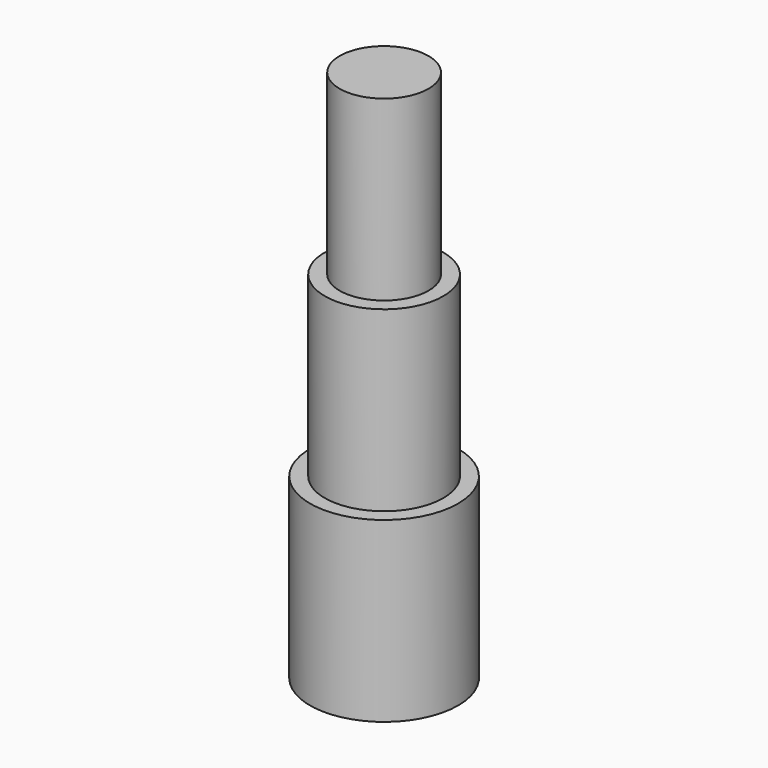
from build123d import *

# Parameters (mm, degrees)
F1_R      = 1
F2_DEPTH  = 6
F0_R      = 0.75
F3_DEPTH  = 9
F5_R      = 1.25
F6_DEPTH  = 3
F4_R      = 0.4
F7_DEPTH  = 2.36
F8_R      = 0.5
F9_DEPTH  = 2.63
F10_R     = 0.4
F11_DEPTH = 4.77


with BuildPart() as f2:
    # F1 (on Top) → F2 (new body)
    with BuildSketch(Plane.XY):
        Circle(F1_R)
    extrude(amount=F2_DEPTH)

    # F0 (on Top) → F3 (join)
    with BuildSketch(Plane.XY):
        Circle(F0_R)
    extrude(amount=F3_DEPTH)

    # F5 (on Top) → F6 (join)
    with BuildSketch(Plane.XY):
        Circle(F5_R)
    extrude(amount=F6_DEPTH)

    # F4 (on Top) → F7 (cut)
    with BuildSketch(Plane.XY):
        Circle(F4_R)
    extrude(amount=F7_DEPTH, mode=Mode.SUBTRACT)

    # F8 (on Top) → F9 (cut)
    with BuildSketch(Plane.XY):
        Circle(F8_R)
    extrude(amount=F9_DEPTH, mode=Mode.SUBTRACT)

    # F10 (on Top) → F11 (cut)
    with BuildSketch(Plane.XY):
        Circle(F10_R)
    extrude(amount=F11_DEPTH, mode=Mode.SUBTRACT)


solid = f2.part
